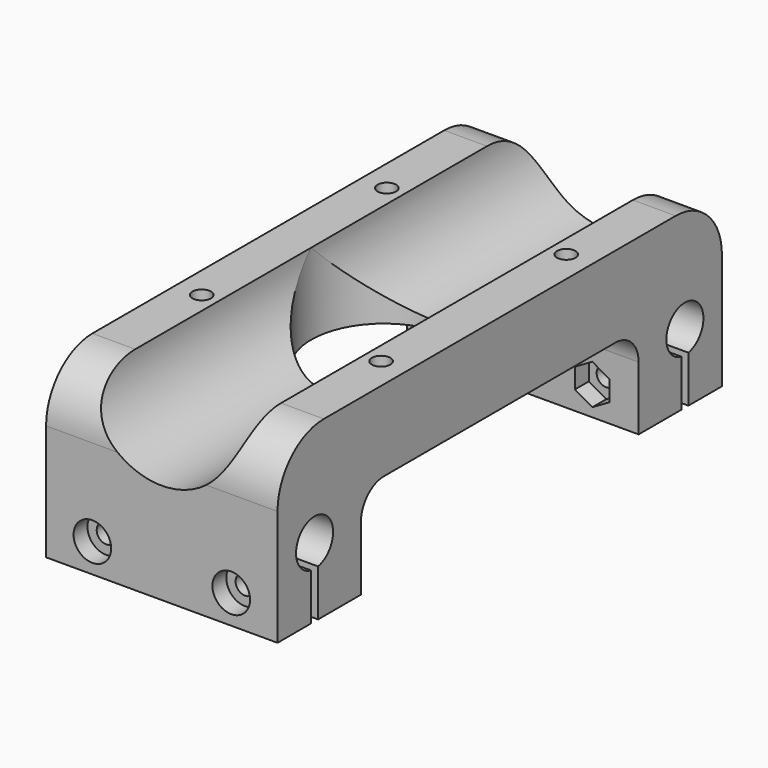
from build123d import *

# Parameters (mm, degrees)
F1_DEPTH             = 96
F3_DEPTH             = 40.001
F6_D                 = 3.3
F6_DEPTH             = 30
F6_CBORE_D           = 6.5
F6_CBORE_DEPTH       = 3
F6_TIP               = 0.9914200214
F6_ON_F4_D           = 3.3
F6_ON_F4_DEPTH       = 30
F6_ON_F4_CBORE_D     = 6.5
F6_ON_F4_CBORE_DEPTH = 3
F6_ON_F4_TIP         = 0.9914200214
F8_DEPTH             = 40.001
F10_DEPTH            = 3
F12_DEPTH            = 3
F14_DEPTH            = 3
F15_R                = 1.6
F15_R_2              = 12.6
F16_DEPTH            = 25
F17_R                = 10


with BuildPart() as f1:
    # F0 (on Front) → F1 (new body)
    with BuildSketch(Plane.XZ):
        with BuildLine():
            Line((0, 30), (0, 0))
            Line((0, 0), (40, 0))
            Line((40, 0), (40, 30))
            Line((40, 30), (32.6, 30))
            ThreePointArc((32.6, 30), (20, 17.4), (7.4, 30))
            Line((7.4, 30), (0, 30))
        make_face()
    extrude(amount=F1_DEPTH)

    # F2 (on face) → F3 (cut, through all)
    with BuildSketch(Plane.YZ.offset(40)):
        with BuildLine():
            Line((-87.25, 0), (-87.25, 8.0709415886))
            ThreePointArc((-87.25, 8.0709415886), (-88, 16), (-88.75, 8.0709415886))
            Line((-88.75, 8.0709415886), (-88.75, 0))
            Line((-88.75, 0), (-87.25, 0))
        make_face()
        with BuildLine():
            Line((-7.25, 0), (-7.25, 8.0709415886))
            ThreePointArc((-7.25, 8.0709415886), (-8, 16), (-8.75, 8.0709415886))
            Line((-8.75, 8.0709415886), (-8.75, 0))
            Line((-8.75, 0), (-7.25, 0))
        make_face()
    extrude(amount=-F3_DEPTH, mode=Mode.SUBTRACT)

    # F6
    with Locations(Plane.XZ.offset(96)):
        with Locations((8, 5), (32, 5)):
            CounterBoreHole(F6_D / 2, F6_CBORE_D / 2, F6_CBORE_DEPTH, depth=F6_DEPTH)
            with Locations((0, 0, -(F6_DEPTH + F6_TIP / 2))):  # 118° drill point
                Cone(0, F6_D / 2, F6_TIP, mode=Mode.SUBTRACT)

    # F6 on F4
    with Locations(Plane(origin=(0, 0, 0), x_dir=(-1, 0, 0), z_dir=(0, 1, 0))):
        with Locations((-8, 5), (-32, 5)):
            CounterBoreHole(F6_ON_F4_D / 2, F6_ON_F4_CBORE_D / 2, F6_ON_F4_CBORE_DEPTH, depth=F6_ON_F4_DEPTH)
            with Locations((0, 0, -(F6_ON_F4_DEPTH + F6_ON_F4_TIP / 2))):  # 118° drill point
                Cone(0, F6_ON_F4_D / 2, F6_ON_F4_TIP, mode=Mode.SUBTRACT)

    # F7 (on face) → F8 (cut, through all)
    with BuildSketch(Plane(origin=(0, 0, 0), x_dir=(0, -1, 0), z_dir=(-1, 0, 0))):
        with BuildLine():
            Line((18, 11), (18, 0))
            Line((18, 0), (78, 0))
            Line((78, 0), (78, 11))
            ThreePointArc((78, 11), (76.5355339059, 14.5355339059), (73, 16))
            Line((73, 16), (23, 16))
            ThreePointArc((23, 16), (19.4644660941, 14.5355339059), (18, 11))
        make_face()
    extrude(amount=-F8_DEPTH, mode=Mode.SUBTRACT)

    # F9 (on face) → F10 (cut)
    with BuildSketch(Plane(origin=(0, 0, 16), x_dir=(1, 0, 0), z_dir=(0, 0, -1))):
        Polygon((7.5, 66.2679491924), (7.5, 69.7320508076), (4.5, 71.4641016151), (1.5, 69.7320508076), (1.5, 66.2679491924), (4.5, 64.5358983849), align=None)
        Polygon((32.5, 69.7320508076), (32.5, 66.2679491924), (35.5, 64.5358983849), (38.5, 66.2679491924), (38.5, 69.7320508076), (35.5, 71.4641016151), align=None)
        Polygon((7.5, 26.2679491924), (7.5, 29.7320508076), (4.5, 31.4641016151), (1.5, 29.7320508076), (1.5, 26.2679491924), (4.5, 24.5358983849), align=None)
        Polygon((32.5, 29.7320508076), (32.5, 26.2679491924), (35.5, 24.5358983849), (38.5, 26.2679491924), (38.5, 29.7320508076), (35.5, 31.4641016151), align=None)
    extrude(amount=-F10_DEPTH, mode=Mode.SUBTRACT)

    # F11 (on face) → F12 (cut)
    with BuildSketch(Plane.XZ.offset(18)):
        Polygon((11, 3.2679491924), (11, 6.7320508076), (8, 8.4641016151), (5, 6.7320508076), (5, 3.2679491924), (8, 1.5358983849), align=None)
        Polygon((35, 3.2679491924), (35, 6.7320508076), (32, 8.4641016151), (29, 6.7320508076), (29, 3.2679491924), (32, 1.5358983849), align=None)
    extrude(amount=-F12_DEPTH, mode=Mode.SUBTRACT)

    # F13 (on face) → F14 (cut)
    with BuildSketch(Plane(origin=(0, -78, 0), x_dir=(-1, 0, 0), z_dir=(0, 1, 0))):
        Polygon((-35, 6.7320508076), (-35, 3.2679491924), (-32, 1.5358983849), (-29, 3.2679491924), (-29, 6.7320508076), (-32, 8.4641016151), align=None)
        Polygon((-11, 6.7320508076), (-11, 3.2679491924), (-8, 1.5358983849), (-5, 3.2679491924), (-5, 6.7320508076), (-8, 8.4641016151), align=None)
    extrude(amount=-F14_DEPTH, mode=Mode.SUBTRACT)

    # F15 (on face) → F16 (cut)
    with BuildSketch(Plane.XY.offset(30)):
        with Locations((4.5, -28)):
            Circle(F15_R)
        with Locations((35.5, -28)):
            Circle(F15_R)
        with Locations((35.5, -68)):
            Circle(F15_R)
        with Locations((4.5, -68)):
            Circle(F15_R)
        with Locations((20, -48)):
            Circle(F15_R_2)
    extrude(amount=-F16_DEPTH, mode=Mode.SUBTRACT)

    # F17
    f17_edges = [f1.edges().sort_by_distance(p)[0] for p in [
        (36.3, -96, 30),
        (3.7, -96, 30),
        (3.7, 0, 30),
        (36.3, 0, 30),
    ]]
    fillet(f17_edges, radius=F17_R)


solid = f1.part
